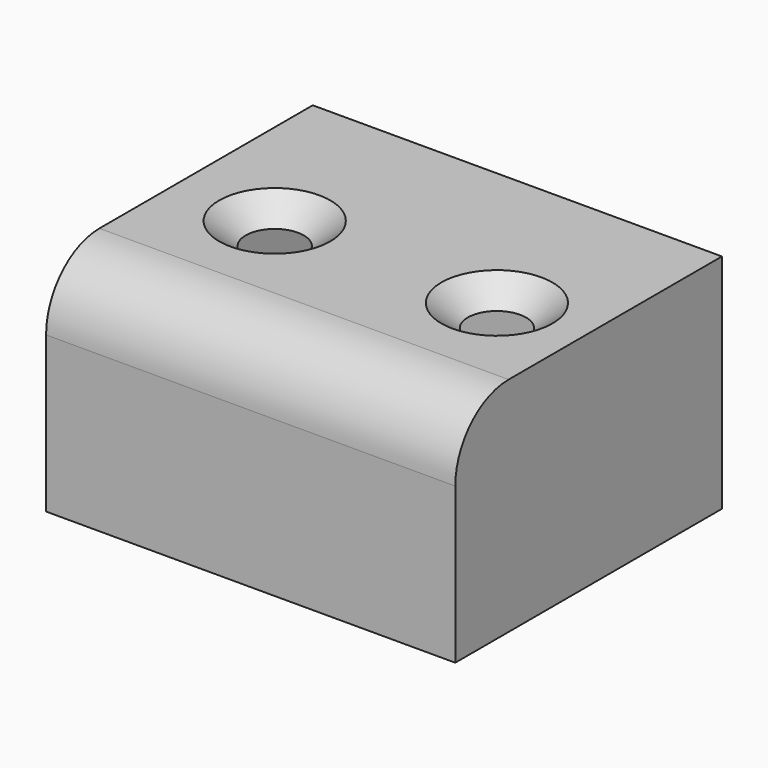
from build123d import *

# Parameters (mm, degrees)
F0_W           = 46.776227
F0_H           = 38.1
F1_DEPTH       = 25.4
F2_R           = 7.62
F3_T           = -2.54
F5_D           = 6.35
F5_CSINK_D     = 12.7
F5_CSINK_ANGLE = 100


with BuildPart() as f1:
    # F0 (on Top) → F1 (new body)
    with BuildSketch(Plane.XY):
        with Locations((-0.622407, 0.518654)):
            Rectangle(F0_W, F0_H)
    extrude(amount=F1_DEPTH)

    # F2
    f2_edges = [f1.edges().sort_by_distance(p)[0] for p in [
        (-0.622407, -18.531346, 25.4),
    ]]
    fillet(f2_edges, radius=F2_R)

    # F3
    f3_openings = [f1.faces().sort_by_distance(p)[0] for p in [
        (-0.622407, 0.518654, 0),
    ]]
    offset(amount=F3_T, openings=f3_openings)

    # F5 (through all)
    with Locations(Plane.XY.offset(25.4)):
        with Locations((-12.7, 0), (12.7, 0)):
            CounterSinkHole(F5_D / 2, F5_CSINK_D / 2, counter_sink_angle=F5_CSINK_ANGLE)


solid = f1.part
